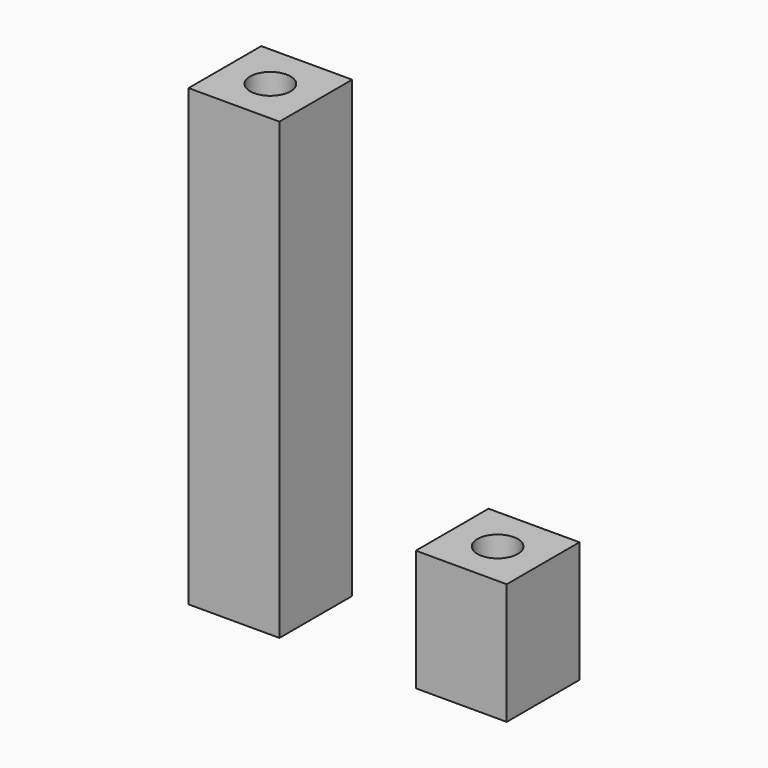
from build123d import *

# Parameters (mm, degrees)
F0_W     = 6
F0_H     = 6
F1_DEPTH = 30
F2_R     = 1.335
F3_DEPTH = 8
F4_R     = 1.335
F5_DEPTH = 8
F6_DEPTH = 8
F7_R     = 1.335
F8_R     = 1.335
F9_DEPTH = 8.001


with BuildPart() as f1:
    # F0 (on Top) → F1 (new body)
    with BuildSketch(Plane.XY):
        Rectangle(F0_W, F0_H)
    extrude(amount=F1_DEPTH)

    # F2 (on face) → F3 (cut)
    with BuildSketch(Plane.XY.offset(30)):
        Circle(F2_R)
    extrude(amount=-F3_DEPTH, mode=Mode.SUBTRACT)

    # F4 (on face) → F5 (cut)
    with BuildSketch(Plane(origin=(0, 0, 0), x_dir=(1, 0, 0), z_dir=(0, 0, -1))):
        Circle(F4_R)
    extrude(amount=-F5_DEPTH, mode=Mode.SUBTRACT)


with BuildPart() as f6:
    # F0 (on Top) → F6 (new body)
    with BuildSketch(Plane.XY):
        with Locations((15, 0)):
            Rectangle(F0_W, F0_H)
    extrude(amount=F6_DEPTH)

    # F7 (on face) + F8 (on face) → F9 (cut, through all)
    with BuildSketch(Plane.XY.offset(8)):
        with Locations((15, 0)):
            Circle(F7_R)
    with BuildSketch(Plane(origin=(0, 0, 0), x_dir=(1, 0, 0), z_dir=(0, 0, -1))):
        with Locations((15, 0)):
            Circle(F8_R)
    extrude(amount=-F9_DEPTH, mode=Mode.SUBTRACT)


solid = Compound([f1.part, f6.part])
